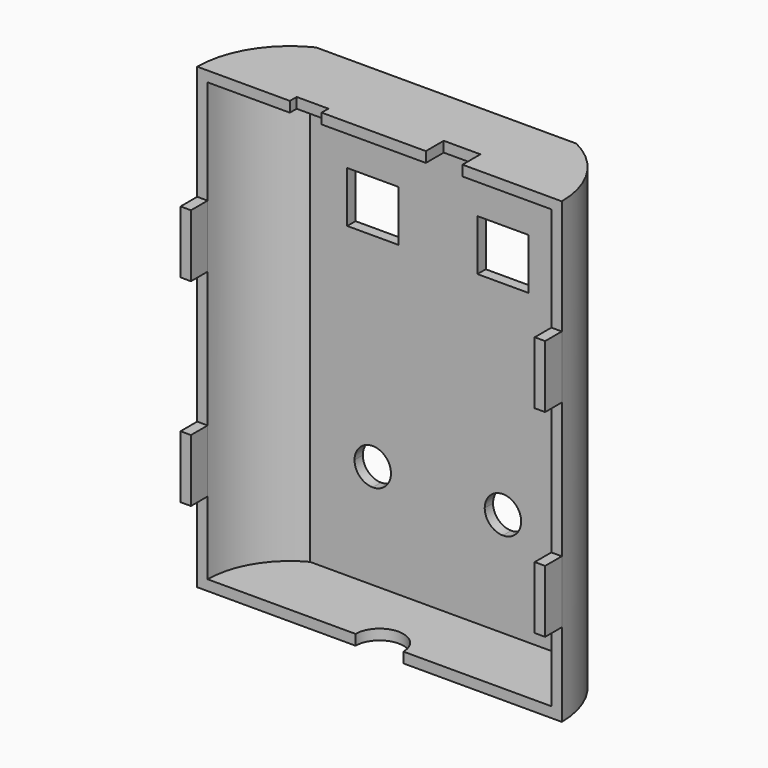
from build123d import *

# Parameters (mm, degrees)
F0_W      = 8.9408
F0_H      = 5.461
F1_DEPTH  = 111.76
F2_T      = -2.54
F4_DEPTH  = 25.4
F5_DEPTH  = 25.4
F7_DEPTH  = 25.4
F8_W      = 2.5400399546
F8_H      = 7.62
F9_DEPTH  = 5.08
F10_W     = 2.5400002226
F10_H     = 15.24
F10_H_2   = 7.62
F11_DEPTH = 5.08
F12_W     = 6.223
F12_H     = 6.223
F13_DEPTH = 25.4


with BuildPart() as f1:
    # F0 (on Top) → F1 (new body)
    with BuildSketch(Plane.XY):
        with BuildLine():
            Line((54.9210952491, 19.4422315109), (-8.5789047509, 19.4422315109))
            ThreePointArc((-8.5789047509, 19.4422315109), (-17.8451170094, 11.099606562), (-21.2789029923, -0.8866853785))
            Line((-21.2789029923, -0.8866853785), (9.0740952491, -0.8866853785))
            Line((9.0740952491, -0.8866853785), (34.4740952491, -0.8866853785))
            Line((34.4740952491, -0.8866853785), (34.4740952491, 4.5743146215))
            Line((34.4740952491, 4.5743146215), (43.4148952491, 4.5743146215))
            Line((43.4148952491, 4.5743146215), (43.4148952491, -0.8866853785))
            Line((43.4148952491, -0.8866853785), (67.6266683049, -0.8866853785))
            ThreePointArc((67.6266683049, -0.8866853785), (64.1599500532, 11.0815657388), (54.9210952491, 19.4422315109))
        make_face()
        with Locations((38.9444952491, 1.8438146215)):
            Rectangle(F0_W, F0_H)
    extrude(amount=-F1_DEPTH)

    # F2
    f2_openings = [f1.faces().sort_by_distance(p)[0] for p in [
        (23.173883, -0.886685, -55.88),
    ]]
    offset(amount=F2_T, openings=f2_openings)

    # F3 (on face) → F4 (cut)
    with BuildSketch(Plane.XY):
        Polygon((1.3137662318, 1.1936101676), (1.3137662318, -0.8866853785), (9.0607662318, -0.8866853785), (9.0607662318, 1.1936101676), (1.3270952491, 1.1936101676), align=None)
    extrude(amount=-F4_DEPTH, mode=Mode.SUBTRACT)

    # F0 (on Top) → F5 (cut)
    with BuildSketch(Plane.XY):
        with Locations((38.9444952491, 1.8438146215)):
            Rectangle(F0_W, F0_H)
    extrude(amount=-F5_DEPTH, mode=Mode.SUBTRACT)

    # F6 (on face) → F7 (cut)
    with BuildSketch(Plane(origin=(0, 0, -111.76), x_dir=(1, 0, 0), z_dir=(0, 0, -1))):
        with BuildLine():
            Line((29.0158826563, 0.8866853785), (17.3318826563, 0.8866853785))
            ThreePointArc((17.3318826563, 0.8866853785), (23.1738826563, -4.9553146215), (29.0158826563, 0.8866853785))
        make_face()
    extrude(amount=-F7_DEPTH, mode=Mode.SUBTRACT)

    # F8 (on face) → F9 (join)
    with BuildSketch(Plane.XZ.offset(0.8866853785)):
        with Locations((66.3566483276, -31.75)):
            Rectangle(F8_W, F8_H)
        with Locations((66.3566483276, -39.37)):
            Rectangle(F8_W, F8_H)
        with Locations((66.3566483276, -80.01)):
            Rectangle(F8_W, F8_H)
        with Locations((66.3566483276, -87.63)):
            Rectangle(F8_W, F8_H)
    extrude(amount=F9_DEPTH)

    # F10 (on face) → F11 (join)
    with BuildSketch(Plane.XZ.offset(0.8866853785)):
        with Locations((-20.008902881, -35.56)):
            Rectangle(F10_W, F10_H)
        with Locations((-20.008902881, -80.01)):
            Rectangle(F10_W, F10_H_2)
        with Locations((-20.008902881, -87.63)):
            Rectangle(F10_W, F10_H_2)
    extrude(amount=F11_DEPTH)

    # F12 (on face) → F13 (cut)
    with BuildSketch(Plane(origin=(0, 19.4422315109, 0), x_dir=(-1, 0, 0), z_dir=(0, 1, 0))):
        with Locations((-4.1845952491, -24.8285)):
            Rectangle(F12_W, F12_H)
        with Locations((-10.4075952491, -24.8285)):
            Rectangle(F12_W, F12_H)
        with Locations((-10.4075952491, -31.0515)):
            Rectangle(F12_W, F12_H)
        with Locations((-4.1845952491, -31.0515)):
            Rectangle(F12_W, F12_H)
        with Locations((-35.9345952491, -24.8285)):
            Rectangle(F12_W, F12_H)
        with Locations((-42.1575952491, -24.8285)):
            Rectangle(F12_W, F12_H)
        with Locations((-42.1575952491, -31.0515)):
            Rectangle(F12_W, F12_H)
        with Locations((-35.9345952491, -31.0515)):
            Rectangle(F12_W, F12_H)
        with BuildLine():
            Line((-39.0460952491, -83.82), (-39.0460952491, -79.375))
            ThreePointArc((-39.0460952491, -79.375), (-42.1891848914, -80.6769103576), (-43.4910952491, -83.82))
            Line((-43.4910952491, -83.82), (-39.0460952491, -83.82))
        make_face()
        with BuildLine():
            Line((-39.0460952491, -88.265), (-39.0460952491, -83.82))
            Line((-39.0460952491, -83.82), (-43.4910952491, -83.82))
            ThreePointArc((-43.4910952491, -83.82), (-42.1891848914, -86.9630896424), (-39.0460952491, -88.265))
        make_face()
        with BuildLine():
            ThreePointArc((-39.0460952491, -88.265), (-35.9030056067, -86.9630896424), (-34.6010952491, -83.82))
            Line((-34.6010952491, -83.82), (-39.0460952491, -83.82))
            Line((-39.0460952491, -83.82), (-39.0460952491, -88.265))
        make_face()
        with BuildLine():
            Line((-39.0460952491, -83.82), (-34.6010952491, -83.82))
            ThreePointArc((-34.6010952491, -83.82), (-35.9030056067, -80.6769103576), (-39.0460952491, -79.375))
            Line((-39.0460952491, -79.375), (-39.0460952491, -83.82))
        make_face()
        with BuildLine():
            ThreePointArc((-7.2960952491, -79.375), (-10.4391848914, -80.6769103576), (-11.7410952491, -83.82))
            Line((-11.7410952491, -83.82), (-7.2960952491, -83.82))
            Line((-7.2960952491, -83.82), (-7.2960952491, -79.375))
        make_face()
        with BuildLine():
            Line((-7.2960952491, -83.82), (-11.7410952491, -83.82))
            ThreePointArc((-11.7410952491, -83.82), (-10.4391848914, -86.9630896424), (-7.2960952491, -88.265))
            Line((-7.2960952491, -88.265), (-7.2960952491, -83.82))
        make_face()
        with BuildLine():
            Line((-2.8510952491, -83.82), (-7.2960952491, -83.82))
            Line((-7.2960952491, -83.82), (-7.2960952491, -88.265))
            ThreePointArc((-7.2960952491, -88.265), (-4.1530056067, -86.9630896424), (-2.8510952491, -83.82))
        make_face()
        with BuildLine():
            ThreePointArc((-2.8510952491, -83.82), (-4.1530056067, -80.6769103576), (-7.2960952491, -79.375))
            Line((-7.2960952491, -79.375), (-7.2960952491, -83.82))
            Line((-7.2960952491, -83.82), (-2.8510952491, -83.82))
        make_face()
    extrude(amount=-F13_DEPTH, mode=Mode.SUBTRACT)


solid = f1.part
